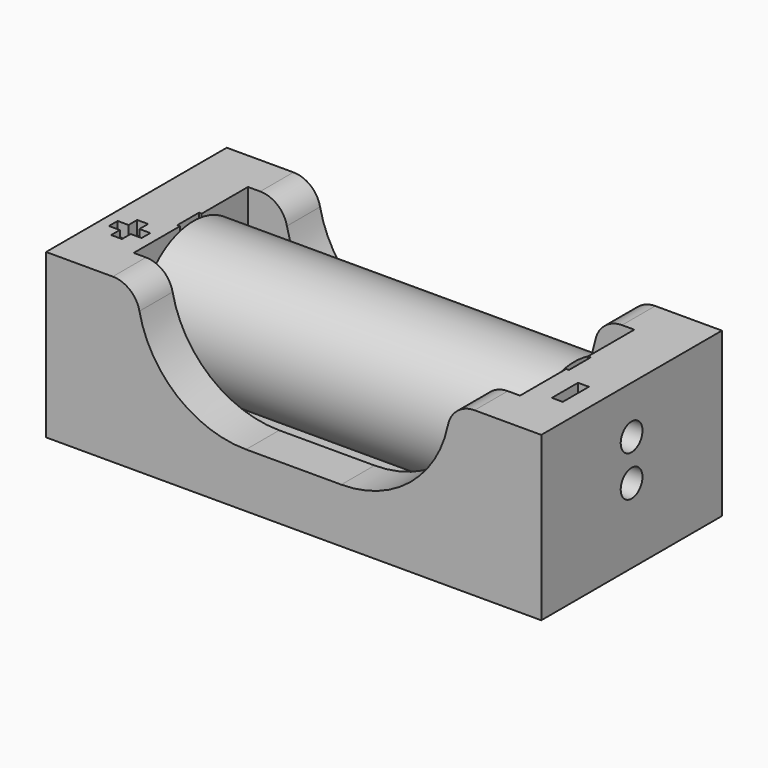
from build123d import *

# Parameters (mm, degrees)
SKETCH_W                    = 36.4
SKETCH_H                    = 16.6
PAD_DEPTH                   = 2
SKETCH001_W                 = 36.4
SKETCH001_H                 = 16.6
SKETCH001_W_2               = 28.4
SKETCH001_H_2               = 10.5
PAD001_DEPTH                = 10
POCKET_DEPTH                = 17
FILLET_R                    = 2
SKETCH003_R                 = 1
POCKET001_DEPTH             = 40
SKETCH004_W                 = 28.8
SKETCH004_H                 = 2
POCKET002_DEPTH             = 8
SKETCH005_W                 = 0.8
SKETCH005_H                 = 2.4
POCKET003_DEPTH             = 1
CYLINDER_R                  = 5
CYLINDER_DEPTH              = 28
BASEFEATURE_PLACEMENT_ANGLE = 90
SKETCH006_R                 = 2.5
POCKET004_DEPTH             = 0.1
SKETCH007_R                 = 2.5
POCKET005_DEPTH             = 0.1
BODY001_PLACEMENT_ANGLE     = 90


with BuildPart() as box:
    # Sketch → Pad (new body)
    with BuildSketch(Plane.XY):
        Rectangle(SKETCH_W, SKETCH_H)
    extrude(amount=PAD_DEPTH)

    # Sketch001 (on Face6 of Pad) → Pad001 (join)
    with BuildSketch(Plane.XY.offset(2)):
        Rectangle(SKETCH001_W, SKETCH001_H)
        Rectangle(SKETCH001_W_2, SKETCH001_H_2, mode=Mode.SUBTRACT)
    extrude(amount=PAD001_DEPTH)

    # Sketch002 (on Face10 of Pad001) → Pocket (cut)
    with BuildSketch(Plane.XZ.offset(8.3)):
        with BuildLine():
            Line((-3.5, 4), (3.5, 4))
            ThreePointArc((3.5, 4), (9.156876, 6.343134), (11.500033, 12))
            Line((-11.500033, 12), (11.500033, 12))
            ThreePointArc((-11.500033, 12), (-9.156876, 6.343134), (-3.5, 4))
        make_face()
    extrude(amount=-POCKET_DEPTH, mode=Mode.SUBTRACT)

    # Fillet
    fillet_edges = [box.edges().sort_by_distance(p)[0] for p in [
        (-11.500033, 6.775, 12),
        (-11.500033, -6.775, 12),
        (11.500033, -6.775, 12),
        (11.500033, 6.775, 12),
    ]]
    fillet(fillet_edges, radius=FILLET_R)

    # Sketch003 (on Face8 of Fillet) → Pocket001 (cut)
    with BuildSketch(Plane(origin=(-18.2, 0, 0), x_dir=(0, -1, 0), z_dir=(-1, 0, 0))):
        with Locations((0, 8.5)):
            Circle(SKETCH003_R)
        with Locations((0, 5.5)):
            Circle(SKETCH003_R)
    extrude(amount=-POCKET001_DEPTH, mode=Mode.SUBTRACT)

    # Sketch004 (on Face10 of Pocket001) → Pocket002 (cut)
    with BuildSketch(Plane.XY.offset(12)):
        Rectangle(SKETCH004_W, SKETCH004_H)
    extrude(amount=-POCKET002_DEPTH, mode=Mode.SUBTRACT)

    # Sketch005 (on Face10 of Pocket002) → Pocket003 (cut)
    with BuildSketch(Plane.XY.offset(12)):
        Polygon((-16.6, -2.725), (-16.6, -1.925), (-15.8, -1.925), (-15.8, -2.725), (-15, -2.725), (-15, -3.525), (-15.8, -3.525), (-15.8, -4.325), (-16.6, -4.325), (-16.6, -3.525), (-17.4, -3.525), (-17.4, -2.725), align=None)
        with Locations((16.2, -3.125)):
            Rectangle(SKETCH005_W, SKETCH005_H)
    extrude(amount=-POCKET003_DEPTH, mode=Mode.SUBTRACT)


with BuildPart() as battery_dont_print:
    # Cylinder → Cylinder (new body)
    with BuildSketch(Plane(origin=(-14, 0, 7), x_dir=(0, 0, -1), z_dir=(1, 0, 0))):
        Circle(CYLINDER_R)
    extrude(amount=CYLINDER_DEPTH)


with BuildPart() as battery_dont_print_1:
    # BaseFeature placement: moved
    add(battery_dont_print.part.moved(Location((7, 0, 14))).rotate(Axis((7, 0, 14), (0, -1, 0)), BASEFEATURE_PLACEMENT_ANGLE))

    # Sketch006 (on Face2 of BaseFeature) → Pocket004 (cut)
    with BuildSketch(Plane.XY.offset(28)):
        Circle(SKETCH006_R)
    extrude(amount=-POCKET004_DEPTH, mode=Mode.SUBTRACT)

    # Sketch007 (on Face3 of Pocket004) → Pocket005 (cut)
    with BuildSketch(Plane(origin=(0, 0, 0), x_dir=(1, 0, 0), z_dir=(0, 0, -1))):
        Circle(SKETCH007_R)
    extrude(amount=-POCKET005_DEPTH, mode=Mode.SUBTRACT)


with BuildPart() as battery_dont_print_2:
    # Body001 placement: moved
    add(battery_dont_print_1.part.moved(Location((-14, 0, 7))).rotate(Axis((-14, 0, 7), (0, 1, 0)), BODY001_PLACEMENT_ANGLE))


solid = Compound([box.part, battery_dont_print_2.part])
